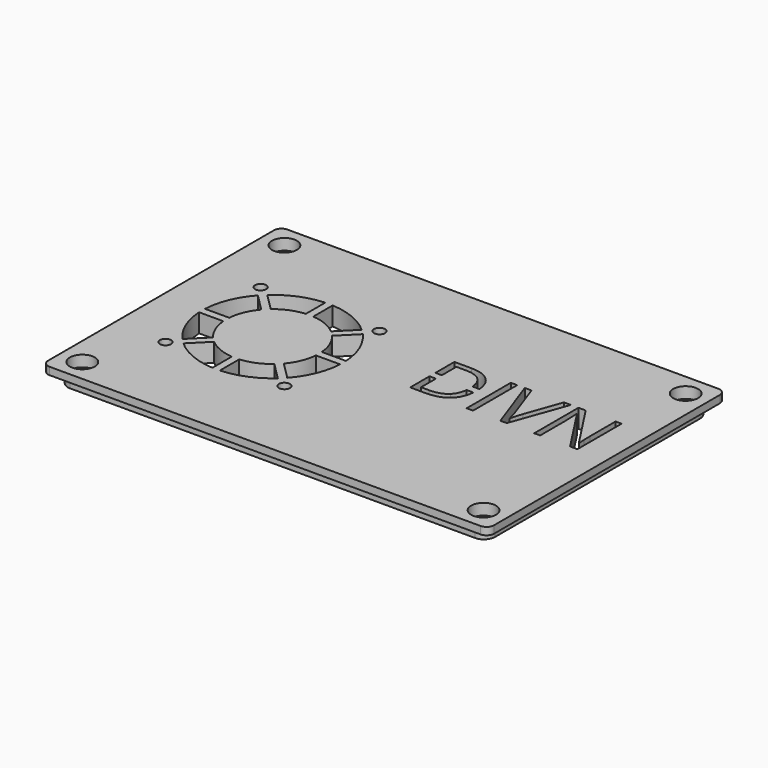
from build123d import *

# Parameters (mm, degrees)
F0_W      = 120
F0_H      = 80
F0_W_2    = 115
F0_H_2    = 75
F1_DEPTH  = 2
F2_W      = 115
F2_H      = 75
F3_DEPTH  = 5
F5_R      = 3
F6_R      = 2
F7_R      = 1.5
F8_DEPTH  = 25
F9_R      = 3.35
F9_R_2    = 1.5
F10_DEPTH = 3
F11_R     = 1.5
F11_W     = 1.728515625
F11_H     = 14.873046875
F12_DEPTH = 25


with BuildPart() as f1:
    # F0 (on Top) → F1 (new body)
    with BuildSketch(Plane.XY):
        Rectangle(F0_W, F0_H)
        Rectangle(F0_W_2, F0_H_2, mode=Mode.SUBTRACT)
    extrude(amount=F1_DEPTH)


with BuildPart() as f3:
    # F2 (on face) → F3 (new body)
    with BuildSketch(Plane.XY.offset(2)):
        Rectangle(F2_W, F2_H)
    extrude(amount=-F3_DEPTH)

    # F4: union F1
    add(f1.part)

    # F5
    f5_edges = [f3.edges().sort_by_distance(p)[0] for p in [
        (-57.5, 37.5, -1.5),
        (-57.5, -37.5, -1.5),
        (57.5, -37.5, -1.5),
        (57.5, 37.5, -1.5),
    ]]
    fillet(f5_edges, radius=F5_R)

    # F6
    f6_edges = [f3.edges().sort_by_distance(p)[0] for p in [
        (60, 40, 1),
        (60, -40, 1),
        (-60, -40, 1),
        (-60, 40, 1),
    ]]
    fillet(f6_edges, radius=F6_R)

    # F7 (on face) → F8 (cut)
    with BuildSketch(Plane.XY.offset(2)):
        with Locations((-54, 34)):
            Circle(F7_R)
        with Locations((54, 34)):
            Circle(F7_R)
        with Locations((-54, -34)):
            Circle(F7_R)
        with Locations((54, -34)):
            Circle(F7_R)
    extrude(amount=-F8_DEPTH, mode=Mode.SUBTRACT)

    # F9 (on face) → F10 (cut)
    with BuildSketch(Plane.XY.offset(2)):
        with Locations((-54, 34)):
            Circle(F9_R)
        with Locations((-54, 34)):
            Circle(F9_R_2, mode=Mode.SUBTRACT)
        with Locations((54, 34)):
            Circle(F9_R)
        with Locations((54, 34)):
            Circle(F9_R_2, mode=Mode.SUBTRACT)
        with Locations((54, -34)):
            Circle(F9_R)
        with Locations((54, -34)):
            Circle(F9_R_2, mode=Mode.SUBTRACT)
        with Locations((-54, -34)):
            Circle(F9_R)
        with Locations((-54, -34)):
            Circle(F9_R_2, mode=Mode.SUBTRACT)
    extrude(amount=-F10_DEPTH, mode=Mode.SUBTRACT)

    # F11 (on face) → F12 (cut)
    with BuildSketch(Plane.XY.offset(2)):
        with BuildLine():
            Line((-17.5400642056, 1), (-11.026334039, 1))
            ThreePointArc((-11.026334039, 1), (-12.4462888823, 7.2709852149), (-15.8764853538, 12.7093010838))
            Line((-15.8764853538, 12.7093010838), (-20.4823881255, 8.1033983122))
            ThreePointArc((-20.4823881255, 8.1033983122), (-18.4515058436, 4.7835429046), (-17.5400642056, 1))
        make_face()
        with Locations((-14, 16)):
            Circle(F11_R)
        with BuildLine():
            Line((-21.8966016878, 9.5176118745), (-17.2906989162, 14.1235146462))
            ThreePointArc((-17.2906989162, 14.1235146462), (-22.7290147851, 17.5537111177), (-29, 18.973665961))
            Line((-29, 18.973665961), (-29, 12.4599357944))
            ThreePointArc((-29, 12.4599357944), (-25.2164570954, 11.5484941564), (-21.8966016878, 9.5176118745))
        make_face()
        with BuildLine():
            Line((-31, 12.4599357944), (-31, 18.973665961))
            ThreePointArc((-31, 18.973665961), (-37.2709852149, 17.5537111177), (-42.7093010838, 14.1235146462))
            Line((-42.7093010838, 14.1235146462), (-38.1033983122, 9.5176118745))
            ThreePointArc((-38.1033983122, 9.5176118745), (-34.7835429046, 11.5484941564), (-31, 12.4599357944))
        make_face()
        with BuildLine():
            Line((-39.5176118745, 8.1033983122), (-44.1235146462, 12.7093010838))
            ThreePointArc((-44.1235146462, 12.7093010838), (-47.5537111177, 7.2709852149), (-48.973665961, 1))
            Line((-48.973665961, 1), (-42.4599357944, 1))
            ThreePointArc((-42.4599357944, 1), (-41.5484941564, 4.7835429046), (-39.5176118745, 8.1033983122))
        make_face()
        with BuildLine():
            ThreePointArc((-48.973665961, -1), (-47.5537111177, -7.2709852149), (-44.1235146462, -12.7093010838))
            Line((-44.1235146462, -12.7093010838), (-39.5176118745, -8.1033983122))
            ThreePointArc((-39.5176118745, -8.1033983122), (-41.5484941564, -4.7835429046), (-42.4599357944, -1))
            Line((-42.4599357944, -1), (-48.973665961, -1))
        make_face()
        with BuildLine():
            ThreePointArc((-42.7093010838, -14.1235146462), (-37.2709852149, -17.5537111177), (-31, -18.973665961))
            Line((-31, -18.973665961), (-31, -12.4599357944))
            ThreePointArc((-31, -12.4599357944), (-34.7835429046, -11.5484941564), (-38.1033983122, -9.5176118745))
            Line((-38.1033983122, -9.5176118745), (-42.7093010838, -14.1235146462))
        make_face()
        with BuildLine():
            ThreePointArc((-29, -18.973665961), (-22.7290147851, -17.5537111177), (-17.2906989162, -14.1235146462))
            Line((-17.2906989162, -14.1235146462), (-21.8966016878, -9.5176118745))
            ThreePointArc((-21.8966016878, -9.5176118745), (-25.2164570954, -11.5484941564), (-29, -12.4599357944))
            Line((-29, -12.4599357944), (-29, -18.973665961))
        make_face()
        with BuildLine():
            ThreePointArc((-15.8764853538, -12.7093010838), (-12.4462888823, -7.2709852149), (-11.026334039, -1))
            Line((-11.026334039, -1), (-17.5400642056, -1))
            ThreePointArc((-17.5400642056, -1), (-18.4515058436, -4.7835429046), (-20.4823881255, -8.1033983122))
            Line((-20.4823881255, -8.1033983122), (-15.8764853538, -12.7093010838))
        make_face()
        with Locations((-14, -16)):
            Circle(F11_R)
        with Locations((-46, -16)):
            Circle(F11_R)
        with Locations((-46, 16)):
            Circle(F11_R)
        with Locations((23.0973307292, 7.4365234375)):
            Rectangle(F11_W, F11_H)
        with BuildLine():
            Line((38.3951822917, 14.873046875), (36.5364583333, 14.873046875))
            Line((36.5364583333, 14.873046875), (33.1380208333, 5.3092447917))
            add(Edge.make_bspline(
                [(32.1809895833, 2.0247395833), (32.548828125, 3.671875), (33.1380208333, 5.3092447917)],
                knots=[0, 0, 0, 1, 1, 1], degree=2))
            add(Edge.make_bspline(
                [(31.2467447917, 5.2506510417), (31.8359375, 3.5904947917), (32.1809895833, 2.0247395833)],
                knots=[0, 0, 0, 1, 1, 1], degree=2))
            Line((31.2467447917, 5.2506510417), (27.8287760417, 14.873046875))
            Line((27.8287760417, 14.873046875), (25.99609375, 14.873046875))
            Line((25.99609375, 14.873046875), (31.328125, 0))
            Line((31.328125, 0), (33.037109375, 0))
            Line((33.037109375, 0), (38.3951822917, 14.873046875))
        make_face()
        with BuildLine():
            Line((50.0846354167, 0), (52.0572916667, 0))
            Line((52.0572916667, 0), (52.0572916667, 14.873046875))
            Line((52.0572916667, 14.873046875), (50.439453125, 14.873046875))
            Line((50.439453125, 14.873046875), (50.439453125, 6.337890625))
            add(Edge.make_bspline(
                [(50.4915364583, 4.2057291667), (50.419921875, 5.6966145833), (50.439453125, 6.337890625)],
                knots=[0, 0, 0, 1, 1, 1], degree=2))
            add(Edge.make_bspline(
                [(50.5826822917, 2.44140625), (50.5631510417, 2.71484375), (50.4915364583, 4.2057291667)],
                knots=[0, 0, 0, 1, 1, 1], degree=2))
            Line((50.5826822917, 2.44140625), (50.5013020833, 2.44140625))
            Line((50.5013020833, 2.44140625), (42.392578125, 14.873046875))
            Line((42.392578125, 14.873046875), (40.439453125, 14.873046875))
            Line((40.439453125, 14.873046875), (40.439453125, 0))
            Line((40.439453125, 0), (42.0377604167, 0))
            Line((42.0377604167, 0), (42.0377604167, 8.4537760417))
            add(Edge.make_bspline(
                [(41.875, 12.48046875), (42.0377604167, 10.283203125), (42.0377604167, 8.4537760417)],
                knots=[0, 0, 0, 1, 1, 1], degree=2))
            Line((41.875, 12.48046875), (41.9563802083, 12.48046875))
            Line((41.9563802083, 12.48046875), (50.0846354167, 0))
        make_face()
        with BuildLine():
            Line((7.0442708333, 14.873046875), (7.0442708333, 8.5))
            Line((7.0442708333, 8.5), (8.7727864583, 8.5))
            Line((8.7727864583, 8.5), (8.7727864583, 13.3756510417))
            Line((8.7727864583, 13.3756510417), (11.2858072917, 13.3756510417))
            add(Edge.make_bspline(
                [(15.6266276042, 11.9010416667), (14.1666666667, 13.3756510417), (11.2858072917, 13.3756510417)],
                knots=[0, 0, 0, 1, 1, 1], degree=2))
            add(Edge.make_bspline(
                [(17.0409949545, 8.5), (16.8285868821, 10.6870225966), (15.6266276042, 11.9010416667)],
                knots=[0.1767181936, 0.1767181936, 0.1767181936, 1, 1, 1], degree=2))
            Line((17.0409949545, 8.5), (18.8795207861, 8.5))
            add(Edge.make_bspline(
                [(16.9938151042, 12.9508463542), (18.6511564201, 11.2935050382), (18.8795207861, 8.5)],
                knots=[0, 0, 0, 0.8622104187, 0.8622104187, 0.8622104187], degree=2))
            add(Edge.make_bspline(
                [(11.6015625, 14.873046875), (15.0716145833, 14.873046875), (16.9938151042, 12.9508463542)],
                knots=[0, 0, 0, 1, 1, 1], degree=2))
            Line((11.6015625, 14.873046875), (7.0442708333, 14.873046875))
        make_face()
        with BuildLine():
            Line((8.7727864583, 6.5), (7.0442708333, 6.5))
            Line((7.0442708333, 6.5), (7.0442708333, 0))
            Line((7.0442708333, 0), (11.1653645833, 0))
            add(Edge.make_bspline(
                [(16.9173177083, 1.9482421875), (14.9186197917, 0), (11.1653645833, 0)],
                knots=[0, 0, 0, 1, 1, 1], degree=2))
            add(Edge.make_bspline(
                [(18.8699305641, 6.5), (18.6125191418, 3.600649448), (16.9173177083, 1.9482421875)],
                knots=[0.1518471004, 0.1518471004, 0.1518471004, 1, 1, 1], degree=2))
            Line((18.8699305641, 6.5), (17.0370247976, 6.5))
            add(Edge.make_bspline(
                [(15.5289713542, 3.0159505208), (16.8087372513, 4.2662965123), (17.0370247976, 6.5)],
                knots=[0, 0, 0, 0.8216177296, 0.8216177296, 0.8216177296], degree=2))
            add(Edge.make_bspline(
                [(10.87890625, 1.494140625), (13.9713541667, 1.494140625), (15.5289713542, 3.0159505208)],
                knots=[0, 0, 0, 1, 1, 1], degree=2))
            Line((10.87890625, 1.494140625), (8.7727864583, 1.494140625))
            Line((8.7727864583, 1.494140625), (8.7727864583, 6.5))
        make_face()
    extrude(amount=-F12_DEPTH, mode=Mode.SUBTRACT)


solid = f3.part
